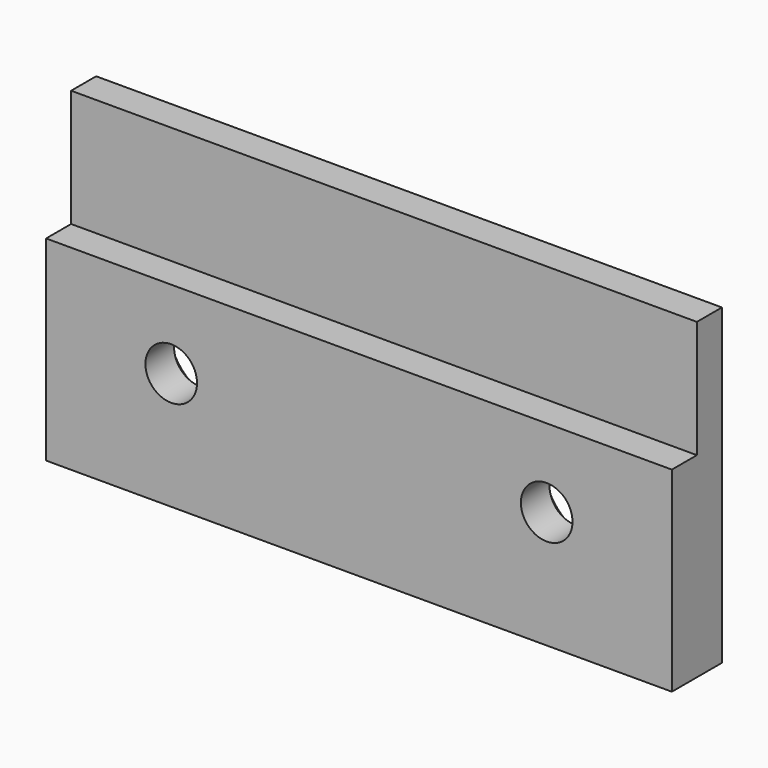
from build123d import *

# Parameters (mm, degrees)
F0_W           = 40
F0_H           = 7.5
F1_DEPTH       = 2
F0_H_2         = 12.5
F2_DEPTH       = 4
F3_D           = 3.3
F3_CSINK_D     = 6.72
F3_CSINK_ANGLE = 90


with BuildPart() as f1:
    # F0 (on Front) → F1 (new body)
    with BuildSketch(Plane.XZ):
        with Locations((0, 6.25)):
            Rectangle(F0_W, F0_H)
    extrude(amount=F1_DEPTH)

    # F0 (on Front) → F2 (join)
    with BuildSketch(Plane.XZ):
        with Locations((0, -3.75)):
            Rectangle(F0_W, F0_H_2)
    extrude(amount=F2_DEPTH)

    # F3 (through all)
    with Locations(Plane(origin=(0, 0, 0), x_dir=(1, 0, 0), z_dir=(0, 1, 0))):
        with Locations((-12, 2.5), (12, 2.5)):
            CounterSinkHole(F3_D / 2, F3_CSINK_D / 2, counter_sink_angle=F3_CSINK_ANGLE)


solid = f1.part
